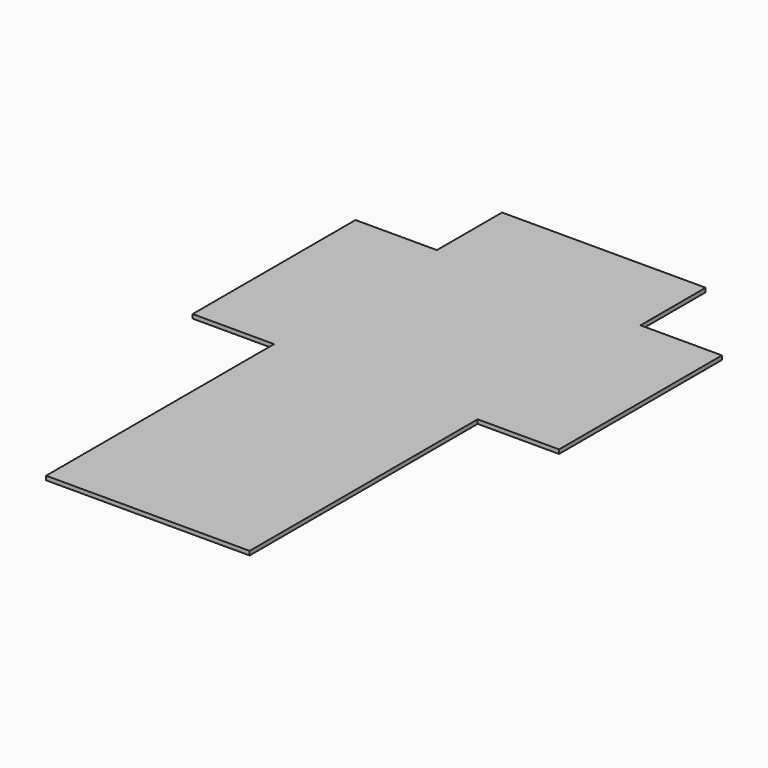
from build123d import *

# Parameters (mm, degrees)
F0_W     = 100
F0_H     = 100
F0_W_2   = 40
F0_H_2   = 40
F1_DEPTH = 2


with BuildPart() as f1:
    # F0 (on Top) → F1 (new body)
    with BuildSketch(Plane.XY):
        with Locations((50, 50)):
            Rectangle(F0_W, F0_H)
        with Locations((-20, 50)):
            Rectangle(F0_W_2, F0_H)
        with Locations((50, -20)):
            Rectangle(F0_W, F0_H_2)
        with Locations((120, 50)):
            Rectangle(F0_W_2, F0_H)
        with Locations((50, 120)):
            Rectangle(F0_W, F0_H_2)
        with Locations((50, -90)):
            Rectangle(F0_W, F0_H)
    extrude(amount=F1_DEPTH)


solid = f1.part
